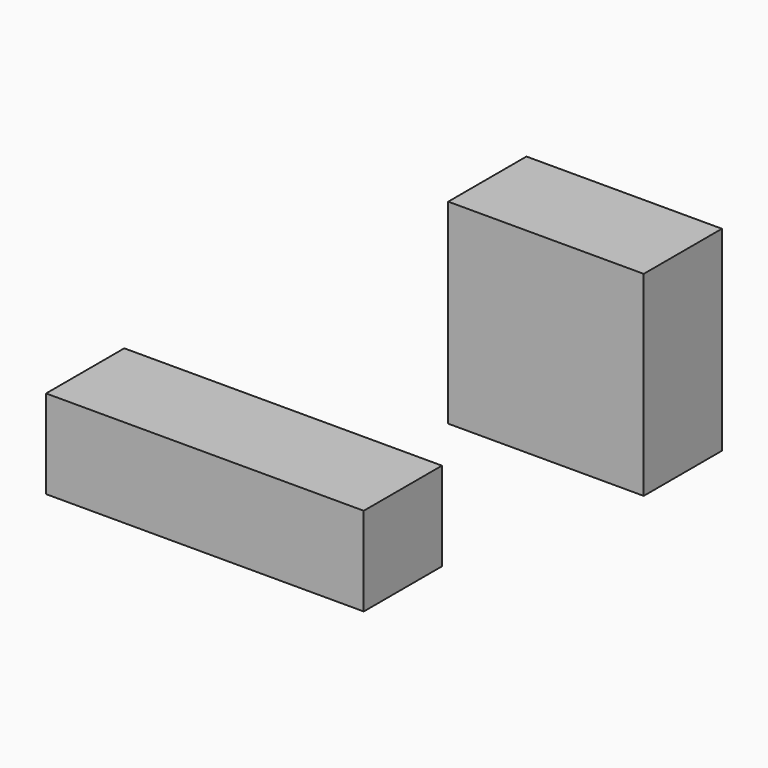
from build123d import *

# Parameters (mm, degrees)
F0_W     = 82.55
F0_H     = 23.04143
F1_DEPTH = 25.4


with BuildPart() as f1:
    # F0 (on Front) → F1 (new body)
    with BuildSketch(Plane.XZ):
        Polygon((63.232685, 89.38066), (63.232685, 46.714649), (63.232685, 38.58066), (114.032685, 38.58066), (114.032685, 89.38066), align=None)
        Rectangle(F0_W, F0_H)
    extrude(amount=F1_DEPTH)


solid = f1.part
